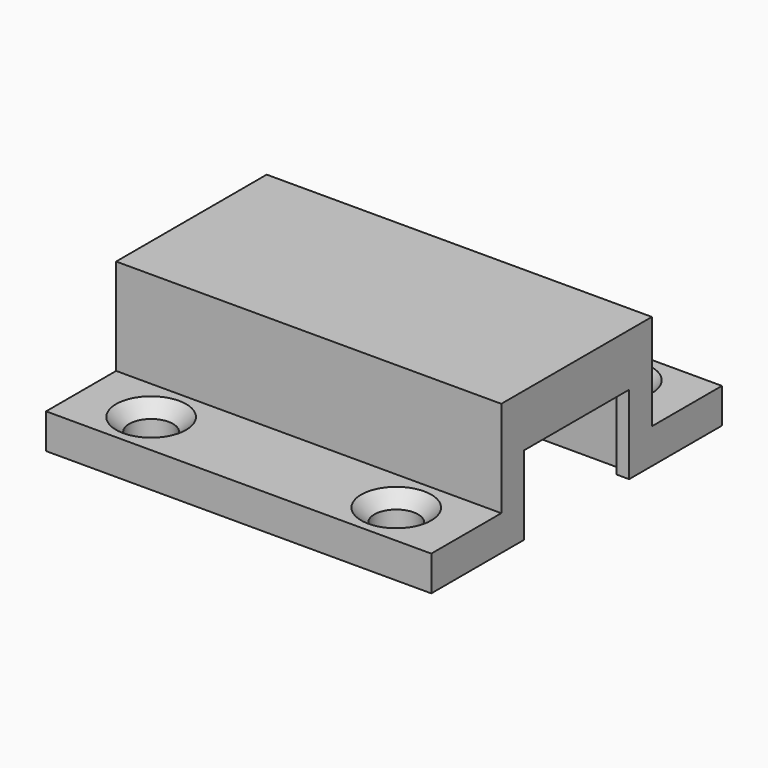
from build123d import *

# Parameters (mm, degrees)
SKETCH001_W     = 44
SKETCH001_H     = 41.5
PAD_DEPTH       = 15
POCKET_DEPTH    = 12
SKETCH002_W     = 15
SKETCH002_H     = 9
POCKET001_DEPTH = 5
SKETCH003_W     = 44
SKETCH003_H     = 10
POCKET002_DEPTH = 11
SKETCH004_R     = 2.5
POCKET003_DEPTH = 5
CHAMFER_SIZE    = 1.5


with BuildPart() as part:
    # Sketch001 → Pad (new body)
    with BuildSketch(Plane.XY):
        Rectangle(SKETCH001_W, SKETCH001_H)
    extrude(amount=PAD_DEPTH)

    # Sketch (on Face5 of Pad) → Pocket (cut)
    with BuildSketch(Plane(origin=(0, 0, 0), x_dir=(1, 0, 0), z_dir=(0, 0, -1))):
        Polygon((20.53, 8.680906), (-1.95, 8.680906), (-22, 5.009672), (-22, -4.990328), (-1.949989, -8.661501), (20.53, -8.639094), align=None)
    extrude(amount=-POCKET_DEPTH, mode=Mode.SUBTRACT)

    # Sketch002 (on Face3 of Pocket) → Pocket001 (cut)
    with BuildSketch(Plane.YZ.offset(22)):
        with Locations((0, 4.5)):
            Rectangle(SKETCH002_W, SKETCH002_H)
    extrude(amount=-POCKET001_DEPTH, mode=Mode.SUBTRACT)

    # Sketch003 (on Face5 of Pocket001) → Pocket002 (cut)
    with BuildSketch(Plane.XY.offset(15)):
        with Locations((0, -15.75)):
            Rectangle(SKETCH003_W, SKETCH003_H)
        with Locations((0, 15.75)):
            Rectangle(SKETCH003_W, SKETCH003_H)
    extrude(amount=-POCKET002_DEPTH, mode=Mode.SUBTRACT)

    # Sketch004 (on Face14 of Pocket002) → Pocket003 (cut)
    with BuildSketch(Plane.XY.offset(4)):
        with Locations((-14, -15.75)):
            Circle(SKETCH004_R)
        with Locations((14, -15.75)):
            Circle(SKETCH004_R)
        with Locations((-14, 15.75)):
            Circle(SKETCH004_R)
        with Locations((14, 15.75)):
            Circle(SKETCH004_R)
    extrude(amount=-POCKET003_DEPTH, mode=Mode.SUBTRACT)

    # Chamfer
    chamfer_edges = [part.edges().sort_by_distance(p)[0] for p in [
        (11.5, -15.75, 4),
        (-16.5, -15.75, 4),
        (-16.5, 15.75, 4),
        (11.5, 15.75, 4),
    ]]
    chamfer(chamfer_edges, length=CHAMFER_SIZE)


solid = part.part
